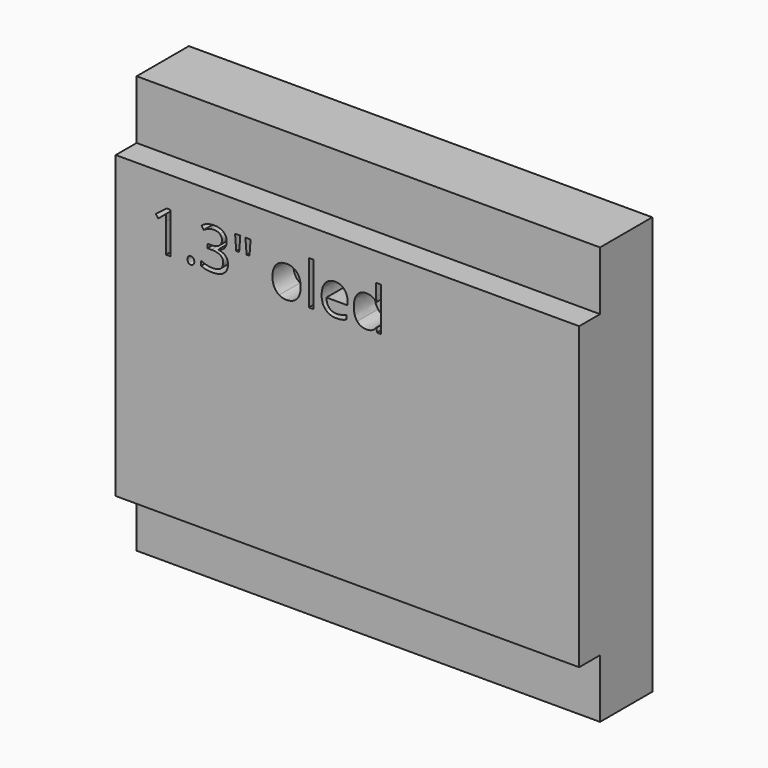
from build123d import *

# Parameters (mm, degrees)
F0_W     = 35.5
F0_H     = 23
F0_W_2   = 0.3563508465
F0_H_2   = 3.3389868337
F1_DEPTH = 2
F2_W     = 35.5
F2_H     = 32
F3_DEPTH = 5


with BuildPart() as f1:
    # F0 (on Front) → F1 (new body)
    with BuildSketch(Plane.XZ):
        Rectangle(F0_W, F0_H)
        with BuildLine():
            Line((-13.5541488121, 9.1653992852), (-13.5541488121, 6.0282759368))
            Line((-13.5541488121, 6.0282759368), (-13.9015737223, 6.0282759368))
            Line((-13.9015737223, 6.0282759368), (-13.9015737223, 8.2638797062))
            add(Edge.make_bspline(
                [(-13.9015737223, 8.2638797062), (-13.9015737223, 8.5433301774), (-13.8844084599, 8.7918831763)],
                knots=[0, 0, 0, 1, 1, 1], degree=2))
            add(Edge.make_bspline(
                [(-13.8844084599, 8.7918831763), (-13.929038142, 8.7465668837), (-13.9849968973, 8.6974742334)],
                knots=[0, 0, 0, 1, 1, 1], degree=2))
            add(Edge.make_bspline(
                [(-13.9849968973, 8.6974742334), (-14.0409556526, 8.648381583), (-14.4954917998, 8.2789851371)],
                knots=[0, 0, 0, 1, 1, 1], degree=2))
            Line((-14.4954917998, 8.2789851371), (-14.6843096857, 8.5234184731))
            Line((-14.6843096857, 8.5234184731), (-13.8541975981, 9.1653992852))
            Line((-13.8541975981, 9.1653992852), (-13.5541488121, 9.1653992852))
        make_face(mode=Mode.SUBTRACT)
        with BuildLine():
            add(Edge.make_bspline(
                [(-12.1778380763, 6.0334255155), (-12.249588873, 6.1010566492), (-12.249588873, 6.2555440105)],
                knots=[0, 0, 0, 1, 1, 1], degree=2))
            add(Edge.make_bspline(
                [(-12.249588873, 6.2555440105), (-12.249588873, 6.3997322143), (-12.1840175708, 6.4735428424)],
                knots=[0, 0, 0, 1, 1, 1], degree=2))
            add(Edge.make_bspline(
                [(-12.1840175708, 6.4735428424), (-12.1184462686, 6.5473534705), (-11.9962296006, 6.5473534705)],
                knots=[0, 0, 0, 1, 1, 1], degree=2))
            add(Edge.make_bspline(
                [(-11.9962296006, 6.5473534705), (-11.8719531011, 6.5473534705), (-11.802262136, 6.4735428424)],
                knots=[0, 0, 0, 1, 1, 1], degree=2))
            add(Edge.make_bspline(
                [(-11.802262136, 6.4735428424), (-11.7325711708, 6.3997322143), (-11.7325711708, 6.2555440105)],
                knots=[0, 0, 0, 1, 1, 1], degree=2))
            add(Edge.make_bspline(
                [(-11.7325711708, 6.2555440105), (-11.7325711708, 6.1161620801), (-11.8032920517, 6.040978231)],
                knots=[0, 0, 0, 1, 1, 1], degree=2))
            add(Edge.make_bspline(
                [(-11.8032920517, 6.040978231), (-11.8740129326, 5.9657943819), (-11.9962296006, 5.9657943819)],
                knots=[0, 0, 0, 1, 1, 1], degree=2))
            add(Edge.make_bspline(
                [(-11.9962296006, 5.9657943819), (-12.1060872797, 5.9657943819), (-12.1778380763, 6.0334255155)],
                knots=[0, 0, 0, 1, 1, 1], degree=2))
        make_face(mode=Mode.SUBTRACT)
        with BuildLine():
            add(Edge.make_bspline(
                [(-9.5010870644, 9.0009560719), (-9.247727792, 8.7918831763), (-9.247727792, 8.4272930039)],
                knots=[0, 0, 0, 1, 1, 1], degree=2))
            add(Edge.make_bspline(
                [(-9.247727792, 8.4272930039), (-9.247727792, 8.1265576074), (-9.4162906683, 7.93567989)],
                knots=[0, 0, 0, 1, 1, 1], degree=2))
            add(Edge.make_bspline(
                [(-9.4162906683, 7.93567989), (-9.5848535447, 7.7448021726), (-9.8938282671, 7.6802607861)],
                knots=[0, 0, 0, 1, 1, 1], degree=2))
            Line((-9.8938282671, 7.6802607861), (-9.8938282671, 7.6630955237))
            add(Edge.make_bspline(
                [(-9.8938282671, 7.6630955237), (-9.5161924952, 7.6164060101), (-9.333897409, 7.423125156)],
                knots=[0, 0, 0, 1, 1, 1], degree=2))
            add(Edge.make_bspline(
                [(-9.333897409, 7.423125156), (-9.1516023228, 7.2298443018), (-9.1516023228, 6.9167499165)],
                knots=[0, 0, 0, 1, 1, 1], degree=2))
            add(Edge.make_bspline(
                [(-9.1516023228, 6.9167499165), (-9.1516023228, 6.4683932637), (-9.4626368767, 6.2267063697)],
                knots=[0, 0, 0, 1, 1, 1], degree=2))
            add(Edge.make_bspline(
                [(-9.4626368767, 6.2267063697), (-9.7736714306, 5.9850194757), (-10.3463045828, 5.9850194757)],
                knots=[0, 0, 0, 1, 1, 1], degree=2))
            add(Edge.make_bspline(
                [(-10.3463045828, 5.9850194757), (-10.5955441923, 5.9850194757), (-10.8025572563, 6.0227830529)],
                knots=[0, 0, 0, 1, 1, 1], degree=2))
            add(Edge.make_bspline(
                [(-10.8025572563, 6.0227830529), (-11.0095703203, 6.0605466301), (-11.2045677007, 6.1546122678)],
                knots=[0, 0, 0, 1, 1, 1], degree=2))
            Line((-11.2045677007, 6.1546122678), (-11.2045677007, 6.493797852))
            add(Edge.make_bspline(
                [(-11.2045677007, 6.493797852), (-11.0006443839, 6.3928661093), (-10.7699432578, 6.3403404065)],
                knots=[0, 0, 0, 1, 1, 1], degree=2))
            add(Edge.make_bspline(
                [(-10.7699432578, 6.3403404065), (-10.5392421317, 6.2878147037), (-10.3332589834, 6.2878147037)],
                knots=[0, 0, 0, 1, 1, 1], degree=2))
            add(Edge.make_bspline(
                [(-10.3332589834, 6.2878147037), (-9.5203121582, 6.2878147037), (-9.5203121582, 6.9249892424)],
                knots=[0, 0, 0, 1, 1, 1], degree=2))
            add(Edge.make_bspline(
                [(-9.5203121582, 6.9249892424), (-9.5203121582, 7.4962491736), (-10.4170254637, 7.4962491736)],
                knots=[0, 0, 0, 1, 1, 1], degree=2))
            Line((-10.4170254637, 7.4962491736), (-10.7260001862, 7.4962491736))
            Line((-10.7260001862, 7.4962491736), (-10.7260001862, 7.8024774541))
            Line((-10.7260001862, 7.8024774541), (-10.4129058008, 7.8024774541))
            add(Edge.make_bspline(
                [(-10.4129058008, 7.8024774541), (-10.0462557968, 7.8024774541), (-9.8316900174, 7.9645175307)],
                knots=[0, 0, 0, 1, 1, 1], degree=2))
            add(Edge.make_bspline(
                [(-9.8316900174, 7.9645175307), (-9.6171242379, 8.1265576074), (-9.6171242379, 8.4142474045)],
                knots=[0, 0, 0, 1, 1, 1], degree=2))
            add(Edge.make_bspline(
                [(-9.6171242379, 8.4142474045), (-9.6171242379, 8.6435753096), (-9.7747013463, 8.774717914)],
                knots=[0, 0, 0, 1, 1, 1], degree=2))
            add(Edge.make_bspline(
                [(-9.7747013463, 8.774717914), (-9.9322784548, 8.9058605184), (-10.2028029895, 8.9058605184)],
                knots=[0, 0, 0, 1, 1, 1], degree=2))
            add(Edge.make_bspline(
                [(-10.2028029895, 8.9058605184), (-10.4087861378, 8.9058605184), (-10.591081224, 8.8499017631)],
                knots=[0, 0, 0, 1, 1, 1], degree=2))
            add(Edge.make_bspline(
                [(-10.591081224, 8.8499017631), (-10.7733763103, 8.7939430078), (-11.0075104888, 8.6435753096)],
                knots=[0, 0, 0, 1, 1, 1], degree=2))
            Line((-11.0075104888, 8.6435753096), (-11.1874024383, 8.8838889826))
            add(Edge.make_bspline(
                [(-11.1874024383, 8.8838889826), (-10.9944648894, 9.0363165123), (-10.742478838, 9.1231727398)],
                knots=[0, 0, 0, 1, 1, 1], degree=2))
            add(Edge.make_bspline(
                [(-10.742478838, 9.1231727398), (-10.4904927866, 9.2100289674), (-10.2110423155, 9.2100289674)],
                knots=[0, 0, 0, 1, 1, 1], degree=2))
            add(Edge.make_bspline(
                [(-10.2110423155, 9.2100289674), (-9.7544463368, 9.2100289674), (-9.5010870644, 9.0009560719)],
                knots=[0, 0, 0, 1, 1, 1], degree=2))
        make_face(mode=Mode.SUBTRACT)
        Polygon((-8.6084934218, 9.1653992852), (-8.2095727246, 9.1653992852), (-8.2953990364, 8.0324919697), (-8.5206072785, 8.0324919697), align=None, mode=Mode.SUBTRACT)
        Polygon((-7.8168315219, 9.1653992852), (-7.4179108247, 9.1653992852), (-7.505796968, 8.0324919697), (-7.7289453786, 8.0324919697), align=None, mode=Mode.SUBTRACT)
        with BuildLine():
            add(Edge.make_bspline(
                [(-3.8739707584, 8.0946302194), (-3.5831912141, 7.7660870979), (-3.5831912141, 7.206499545)],
                knots=[0, 0, 0, 1, 1, 1], degree=2))
            add(Edge.make_bspline(
                [(-3.5831912141, 7.206499545), (-3.5831912141, 6.6311199508), (-3.8725975374, 6.3080697133)],
                knots=[0, 0, 0, 1, 1, 1], degree=2))
            add(Edge.make_bspline(
                [(-3.8725975374, 6.3080697133), (-4.1620038608, 5.9850194757), (-4.6728420685, 5.9850194757)],
                knots=[0, 0, 0, 1, 1, 1], degree=2))
            add(Edge.make_bspline(
                [(-4.6728420685, 5.9850194757), (-4.9886828959, 5.9850194757), (-5.2331162319, 6.1333273425)],
                knots=[0, 0, 0, 1, 1, 1], degree=2))
            add(Edge.make_bspline(
                [(-5.2331162319, 6.1333273425), (-5.4775495678, 6.2816352092), (-5.6107520037, 6.5583392384)],
                knots=[0, 0, 0, 1, 1, 1], degree=2))
            add(Edge.make_bspline(
                [(-5.6107520037, 6.5583392384), (-5.7439544396, 6.8350432676), (-5.7439544396, 7.206499545)],
                knots=[0, 0, 0, 1, 1, 1], degree=2))
            add(Edge.make_bspline(
                [(-5.7439544396, 7.206499545), (-5.7439544396, 7.7811925288), (-5.4562646425, 8.1021829348)],
                knots=[0, 0, 0, 1, 1, 1], degree=2))
            add(Edge.make_bspline(
                [(-5.4562646425, 8.1021829348), (-5.1685748454, 8.4231733409), (-4.6577366377, 8.4231733409)],
                knots=[0, 0, 0, 1, 1, 1], degree=2))
            add(Edge.make_bspline(
                [(-4.6577366377, 8.4231733409), (-4.1647503028, 8.4231733409), (-3.8739707584, 8.0946302194)],
                knots=[0, 0, 0, 1, 1, 1], degree=2))
        make_face(mode=Mode.SUBTRACT)
        with Locations((-2.780200241, 7.6977693537)):
            Rectangle(F0_W_2, F0_H_2, mode=Mode.SUBTRACT)
        with BuildLine():
            add(Edge.make_bspline(
                [(-0.4467544762, 6.0207232214), (-0.6149740473, 5.9850194757), (-0.8532278888, 5.9850194757)],
                knots=[0, 0, 0, 1, 1, 1], degree=2))
            add(Edge.make_bspline(
                [(-0.8532278888, 5.9850194757), (-1.374365254, 5.9850194757), (-1.6761305662, 6.3029201346)],
                knots=[0, 0, 0, 1, 1, 1], degree=2))
            add(Edge.make_bspline(
                [(-1.6761305662, 6.3029201346), (-1.9778958785, 6.6208207934), (-1.9778958785, 7.1845280092)],
                knots=[0, 0, 0, 1, 1, 1], degree=2))
            add(Edge.make_bspline(
                [(-1.9778958785, 7.1845280092), (-1.9778958785, 7.753728109), (-1.6977587968, 8.088450725)],
                knots=[0, 0, 0, 1, 1, 1], degree=2))
            add(Edge.make_bspline(
                [(-1.6977587968, 8.088450725), (-1.4176217151, 8.4231733409), (-0.945233695, 8.4231733409)],
                knots=[0, 0, 0, 1, 1, 1], degree=2))
            add(Edge.make_bspline(
                [(-0.945233695, 8.4231733409), (-0.5037431472, 8.4231733409), (-0.2462642119, 8.1323937966)],
                knots=[0, 0, 0, 1, 1, 1], degree=2))
            add(Edge.make_bspline(
                [(-0.2462642119, 8.1323937966), (0.0112147235, 7.8416142523), (0.0112147235, 7.3651065692)],
                knots=[0, 0, 0, 1, 1, 1], degree=2))
            Line((0.0112147235, 7.3651065692), (0.0112147235, 7.1398983271))
            Line((0.0112147235, 7.1398983271), (-1.6084994325, 7.1398983271))
            add(Edge.make_bspline(
                [(-1.6084994325, 7.1398983271), (-1.5975136646, 6.725872199), (-1.3990832318, 6.5113064196)],
                knots=[0, 0, 0, 1, 1, 1], degree=2))
            add(Edge.make_bspline(
                [(-1.3990832318, 6.5113064196), (-1.2006527989, 6.2967406401), (-0.8401822894, 6.2967406401)],
                knots=[0, 0, 0, 1, 1, 1], degree=2))
            add(Edge.make_bspline(
                [(-0.8401822894, 6.2967406401), (-0.4604866861, 6.2967406401), (-0.0897170192, 6.4553476643)],
                knots=[0, 0, 0, 1, 1, 1], degree=2))
            Line((-0.0897170192, 6.4553476643), (-0.0897170192, 6.1374470054))
            add(Edge.make_bspline(
                [(-0.0897170192, 6.1374470054), (-0.2785349051, 6.0564269671), (-0.4467544762, 6.0207232214)],
                knots=[0, 0, 0, 1, 1, 1], degree=2))
        make_face(mode=Mode.SUBTRACT)
        with BuildLine():
            Line((2.2667301972, 6.0282759368), (2.2193540731, 6.3434301537))
            Line((2.2193540731, 6.3434301537), (2.2001289793, 6.3434301537))
            add(Edge.make_bspline(
                [(2.2001289793, 6.3434301537), (1.9536358118, 5.9850194757), (1.4620226979, 5.9850194757)],
                knots=[0, 0, 0, 1, 1, 1], degree=2))
            add(Edge.make_bspline(
                [(1.4620226979, 5.9850194757), (1.0006204458, 5.9850194757), (0.7441714262, 6.3005169978)],
                knots=[0, 0, 0, 1, 1, 1], degree=2))
            add(Edge.make_bspline(
                [(0.7441714262, 6.3005169978), (0.4877224065, 6.61601452), (0.4877224065, 7.1975736086)],
                knots=[0, 0, 0, 1, 1, 1], degree=2))
            add(Edge.make_bspline(
                [(0.4877224065, 7.1975736086), (0.4877224065, 7.7791326973), (0.7452013419, 8.1011530191)],
                knots=[0, 0, 0, 1, 1, 1], degree=2))
            add(Edge.make_bspline(
                [(0.7452013419, 8.1011530191), (1.0026802772, 8.4231733409), (1.4620226979, 8.4231733409)],
                knots=[0, 0, 0, 1, 1, 1], degree=2))
            add(Edge.make_bspline(
                [(1.4620226979, 8.4231733409), (1.9405902124, 8.4231733409), (2.1960093163, 8.0750618203)],
                knots=[0, 0, 0, 1, 1, 1], degree=2))
            Line((2.1960093163, 8.0750618203), (2.2241603466, 8.0750618203))
            Line((2.2241603466, 8.0750618203), (2.2090549157, 8.2446546124))
            Line((2.2090549157, 8.2446546124), (2.2001289793, 8.4101277415))
            Line((2.2001289793, 8.4101277415), (2.2001289793, 9.3672627706))
            Line((2.2001289793, 9.3672627706), (2.5564798258, 9.3672627706))
            Line((2.5564798258, 9.3672627706), (2.5564798258, 6.0282759368))
            Line((2.5564798258, 6.0282759368), (2.2667301972, 6.0282759368))
        make_face(mode=Mode.SUBTRACT)
    extrude(amount=F1_DEPTH)

    # F2 (on Front) → F3 (join)
    with BuildSketch(Plane.XZ):
        Rectangle(F2_W, F2_H)
    extrude(amount=-F3_DEPTH)


solid = f1.part
